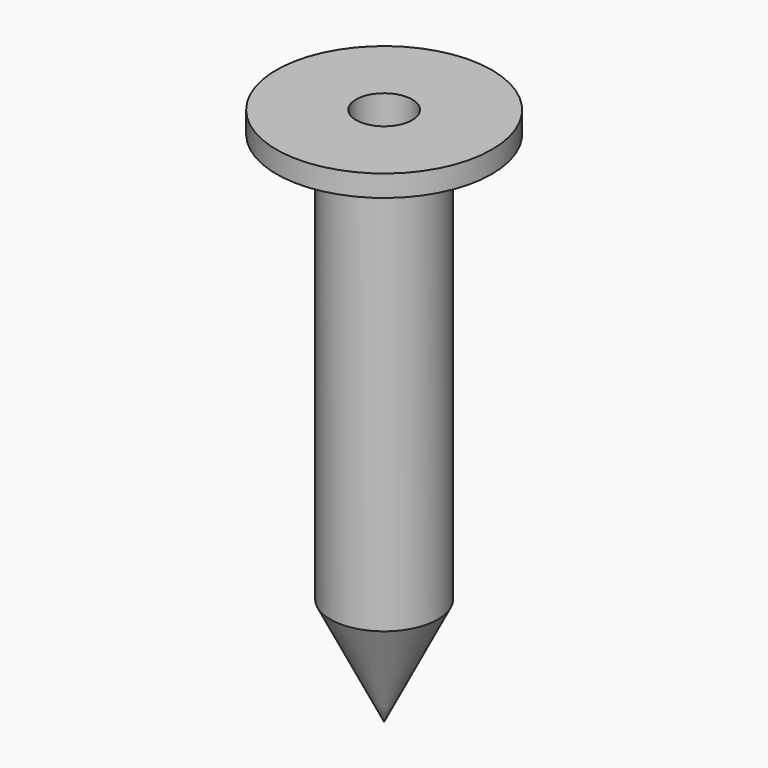
from build123d import *

# Parameters (mm, degrees)
F0_R     = 12.5
F0_R_2   = 6.5
F1_DEPTH = 100


with BuildPart() as f1:
    # F0 (on Top) → F1 (new body)
    with BuildSketch(Plane.XY):
        Circle(F0_R)
        Circle(F0_R_2, mode=Mode.SUBTRACT)
    extrude(amount=F1_DEPTH)

    # F2 (on Front) → F3 (revolve)
    with BuildSketch(Plane.XZ):
        Polygon((12.5, 0), (0, 0), (0, -25), align=None)
    revolve(axis=Axis((0, 0, -12.5), (0, 0, -1)))

    # F4 (on Front) → F5 (revolve)
    with BuildSketch(Plane.XZ):
        Polygon((14.8862302303, 95), (10, 95), (10, 89.0116691589), align=None)
        Polygon((25, 100), (10, 100), (10, 95), (14.8862302303, 95), (25, 95), align=None)
    revolve(axis=Axis((0, 0, 50), (0, 0, 1)))


solid = f1.part
